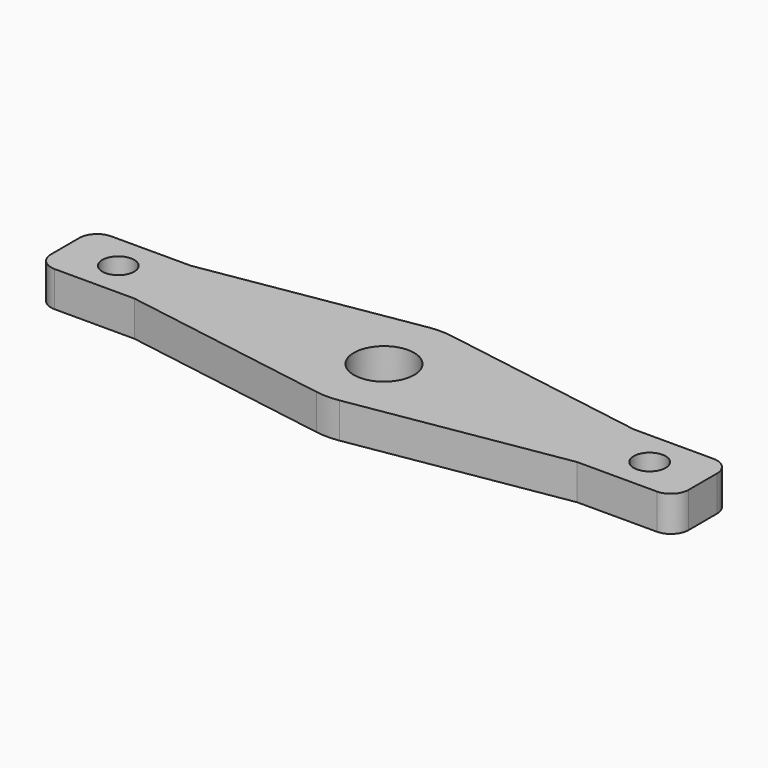
from build123d import *

# Parameters (mm, degrees)
F0_R     = 4.5
F0_R_2   = 8.5
F1_DEPTH = 10
F2_R     = 5


with BuildPart() as f1:
    # F0 (on Top) → F1 (new body)
    with BuildSketch(Plane.XY):
        with BuildLine():
            Line((-62.5, 10), (-90, 10))
            Line((-90, 10), (-90, -10))
            Line((-90, -10), (-62.5, -10))
            Line((-62.5, -10), (-17.320508, -10))
            ThreePointArc((-17.320508, -10), (-20, 0), (-17.320508, 10))
            Line((-17.320508, 10), (-62.5, 10))
        make_face()
        with Locations((-75, 0)):
            Circle(F0_R, mode=Mode.SUBTRACT)
        with BuildLine():
            Line((-3.242331, 19.735432), (-62.5, 10))
            Line((-62.5, 10), (-17.320508, 10))
            ThreePointArc((-17.320508, 10), (-11.375511, 16.449856), (-3.242331, 19.735432))
        make_face()
        with BuildLine():
            ThreePointArc((-3.242331, 19.735432), (-11.375511, 16.449856), (-17.320508, 10))
            Line((-17.320508, 10), (17.320508, 10))
            ThreePointArc((17.320508, 10), (11.375511, 16.449856), (3.242331, 19.735432))
            ThreePointArc((3.242331, 19.735432), (0, 20), (-3.242331, 19.735432))
        make_face()
        with BuildLine():
            Line((-17.320508, -10), (-62.5, -10))
            Line((-62.5, -10), (-3.242331, -19.735432))
            ThreePointArc((-3.242331, -19.735432), (-11.375511, -16.449856), (-17.320508, -10))
        make_face()
        with BuildLine():
            ThreePointArc((3.242331, 19.735432), (11.375511, 16.449856), (17.320508, 10))
            Line((17.320508, 10), (62.5, 10))
            Line((62.5, 10), (3.242331, 19.735432))
        make_face()
        with BuildLine():
            Line((62.5, 10), (17.320508, 10))
            ThreePointArc((17.320508, 10), (19.318517, 5.176381), (20, 0))
            ThreePointArc((20, 0), (19.318517, -5.176381), (17.320508, -10))
            Line((17.320508, -10), (62.5, -10))
            Line((62.5, -10), (90, -10))
            Line((90, -10), (90, 10))
            Line((90, 10), (62.5, 10))
        make_face()
        with Locations((75, 0)):
            Circle(F0_R, mode=Mode.SUBTRACT)
        with BuildLine():
            Line((17.320508, -10), (-17.320508, -10))
            ThreePointArc((-17.320508, -10), (-11.375511, -16.449856), (-3.242331, -19.735432))
            ThreePointArc((-3.242331, -19.735432), (0, -20), (3.242331, -19.735432))
            ThreePointArc((3.242331, -19.735432), (11.375511, -16.449856), (17.320508, -10))
        make_face()
        with BuildLine():
            Line((62.5, -10), (17.320508, -10))
            ThreePointArc((17.320508, -10), (11.375511, -16.449856), (3.242331, -19.735432))
            Line((3.242331, -19.735432), (62.5, -10))
        make_face()
        with BuildLine():
            Line((17.320508, 10), (-17.320508, 10))
            ThreePointArc((-17.320508, 10), (-20, 0), (-17.320508, -10))
            Line((-17.320508, -10), (17.320508, -10))
            ThreePointArc((17.320508, -10), (19.318517, -5.176381), (20, 0))
            ThreePointArc((20, 0), (19.318517, 5.176381), (17.320508, 10))
        make_face()
        Circle(F0_R_2, mode=Mode.SUBTRACT)
    extrude(amount=F1_DEPTH)

    # F2
    f2_edges = [f1.edges().sort_by_distance(p)[0] for p in [
        (-90, -10, 5),
        (-90, 10, 5),
        (90, -10, 5),
        (90, 10, 5),
    ]]
    fillet(f2_edges, radius=F2_R)


solid = f1.part
